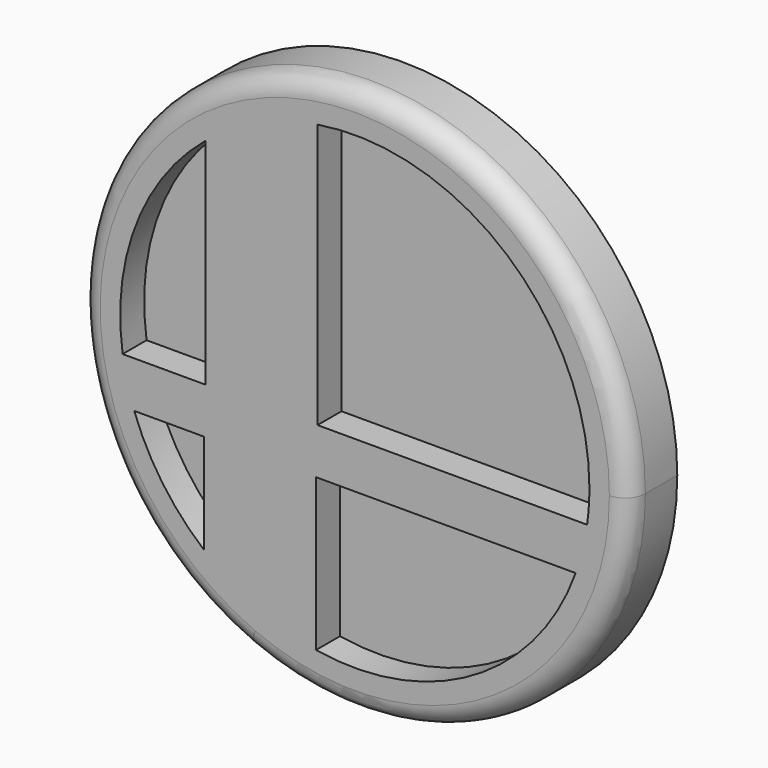
from build123d import *

# Parameters (mm, degrees)
F1_DEPTH = 7.62
F2_DEPTH = 3.81
F3_R     = 2.54


with BuildPart() as f1:
    # F0 (on Front) → F1 (new body)
    with BuildSketch(Plane.XZ):
        with BuildLine():
            ThreePointArc((17.744669, 0), (50.676236, 3.013402), (66.332194, 32.141733))
            ThreePointArc((66.332194, 32.141733), (12.138153, 61.270064), (17.744669, 0))
        make_face()
        with BuildLine():
            ThreePointArc((26.666769, 61.607856), (50.762375, 54.85959), (61.252194, 32.141733))
            ThreePointArc((61.252194, 32.141733), (61.178246, 30.042092), (60.956769, 27.952856))
            ThreePointArc((60.956769, 27.952856), (60.377684, 24.969932), (59.498295, 22.061351))
            ThreePointArc((59.498295, 22.061351), (46.499376, 6.393916), (26.478295, 2.706551))
            ThreePointArc((26.478295, 2.706551), (18.921559, 5.033931), (12.241204, 9.26404))
            ThreePointArc((12.241204, 9.26404), (6.957218, 15.02675), (3.351204, 21.96404))
            ThreePointArc((3.351204, 21.96404), (2.46218, 24.867794), (1.87284, 27.84686))
            ThreePointArc((1.87284, 27.84686), (3.560265, 42.87824), (12.400403, 55.15186))
            ThreePointArc((12.400403, 55.15186), (19.10262, 59.3322), (26.666769, 61.607856))
        make_face(mode=Mode.SUBTRACT)
        with BuildLine():
            Line((26.666769, 27.952856), (26.666769, 61.607856))
            ThreePointArc((26.666769, 61.607856), (19.10262, 59.3322), (12.400403, 55.15186))
            Line((12.400403, 55.15186), (12.400403, 27.84686))
            Line((12.400403, 27.84686), (1.87284, 27.84686))
            ThreePointArc((1.87284, 27.84686), (2.46218, 24.867794), (3.351204, 21.96404))
            Line((3.351204, 21.96404), (12.241204, 21.96404))
            Line((12.241204, 21.96404), (12.241204, 9.26404))
            ThreePointArc((12.241204, 9.26404), (18.921559, 5.033931), (26.478295, 2.706551))
            Line((26.478295, 2.706551), (26.478295, 22.061351))
            Line((26.478295, 22.061351), (59.498295, 22.061351))
            ThreePointArc((59.498295, 22.061351), (60.377684, 24.969932), (60.956769, 27.952856))
            Line((60.956769, 27.952856), (26.666769, 27.952856))
        make_face()
    extrude(amount=F1_DEPTH)

    # F0 (on Front) → F2 (join)
    with BuildSketch(Plane.XZ):
        with BuildLine():
            Line((12.400403, 27.84686), (12.400403, 55.15186))
            ThreePointArc((12.400403, 55.15186), (3.560265, 42.87824), (1.87284, 27.84686))
            Line((1.87284, 27.84686), (12.400403, 27.84686))
        make_face()
        with BuildLine():
            ThreePointArc((60.956769, 27.952856), (61.178246, 30.042092), (61.252194, 32.141733))
            ThreePointArc((61.252194, 32.141733), (50.762375, 54.85959), (26.666769, 61.607856))
            Line((26.666769, 61.607856), (26.666769, 27.952856))
            Line((26.666769, 27.952856), (60.956769, 27.952856))
        make_face()
        with BuildLine():
            ThreePointArc((26.478295, 2.706551), (46.499376, 6.393916), (59.498295, 22.061351))
            Line((59.498295, 22.061351), (26.478295, 22.061351))
            Line((26.478295, 22.061351), (26.478295, 2.706551))
        make_face()
        with BuildLine():
            Line((12.241204, 21.96404), (3.351204, 21.96404))
            ThreePointArc((3.351204, 21.96404), (6.957218, 15.02675), (12.241204, 9.26404))
            Line((12.241204, 9.26404), (12.241204, 21.96404))
        make_face()
    extrude(amount=F2_DEPTH)

    # F3
    f3_edges = [f1.edges().sort_by_distance(p)[0] for p in [
        (45.06972, -7.62, 64.283466),
    ]]
    fillet(f3_edges, radius=F3_R)


solid = f1.part
